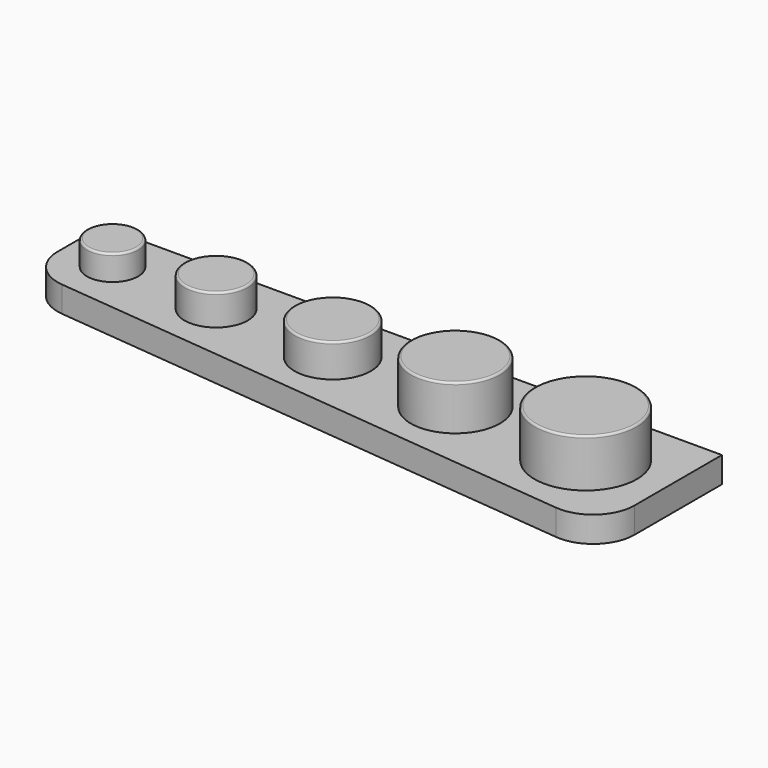
from build123d import *

# Parameters (mm, degrees)
F2_R     = 3.1496
F2_R_2   = 4.699
F2_R_3   = 3.8862
F2_R_4   = 5.4864
F2_R_5   = 6.2865
F3_DEPTH = 3.175
F1_R     = 6.2865
F4_DEPTH = 9.0932
F0_R     = 5.4864
F5_DEPTH = 8.6868
F6_DEPTH = 7.2644
F7_DEPTH = 6.985
F8_DEPTH = 6.2738
F9_R     = 5.08
F10_R    = 0.254


with BuildPart() as f3:
    # F2 (on face) → F3 (new body)
    with BuildSketch(Plane.XY):
        Polygon((-36.528022, 7.525173), (-36.528022, -3.904827), (39.671978, -11.524827), (39.671978, 7.525173), align=None)
        with Locations((-30.432022, 1.520613)):
            Circle(F2_R, mode=Mode.SUBTRACT)
        with Locations((-2.238022, 0.108373)):
            Circle(F2_R_2, mode=Mode.SUBTRACT)
        with Locations((-17.224022, 0.921173)):
            Circle(F2_R_3, mode=Mode.SUBTRACT)
        with Locations((13.459178, -0.666327)):
            Circle(F2_R_4, mode=Mode.SUBTRACT)
        with Locations((30.146978, -1.504527)):
            Circle(F2_R_5, mode=Mode.SUBTRACT)
        with Locations((30.146978, -1.504527)):
            Circle(F2_R_5)
        with Locations((13.459178, -0.666327)):
            Circle(F2_R_4)
        with Locations((-2.238022, 0.108373)):
            Circle(F2_R_2)
        with Locations((-17.224022, 0.921173)):
            Circle(F2_R_3)
        with Locations((-30.432022, 1.520613)):
            Circle(F2_R)
    extrude(amount=F3_DEPTH)

    # F1 (on face) → F4 (join)
    with BuildSketch(Plane.XY):
        with Locations((30.146978, -1.504527)):
            Circle(F1_R)
    extrude(amount=F4_DEPTH)

    # F0 (on Top) → F5 (join)
    with BuildSketch(Plane.XY):
        with Locations((13.459178, -0.666327)):
            Circle(F0_R)
    extrude(amount=F5_DEPTH)

    # F2 (on face) → F6 (join)
    with BuildSketch(Plane.XY):
        with Locations((-2.238022, 0.108373)):
            Circle(F2_R_2)
    extrude(amount=F6_DEPTH)

    # F2 (on face) → F7 (join)
    with BuildSketch(Plane.XY):
        with Locations((-17.224022, 0.921173)):
            Circle(F2_R_3)
    extrude(amount=F7_DEPTH)

    # F2 (on face) → F8 (join)
    with BuildSketch(Plane.XY):
        with Locations((-30.432022, 1.520613)):
            Circle(F2_R)
    extrude(amount=F8_DEPTH)

    # F9
    f9_edges = [f3.edges().sort_by_distance(p)[0] for p in [
        (39.671978, -11.524827, 1.5875),
        (-36.528022, -3.904827, 1.5875),
    ]]
    fillet(f9_edges, radius=F9_R)

    # F10
    f10_edges = [f3.edges().sort_by_distance(p)[0] for p in [
        (23.860478, -1.504527, 9.0932),
        (7.972778, -0.666327, 8.6868),
        (-6.937022, 0.108373, 7.2644),
        (-21.110222, 0.921173, 6.985),
        (-33.581622, 1.520613, 6.2738),
    ]]
    fillet(f10_edges, radius=F10_R)


solid = f3.part
